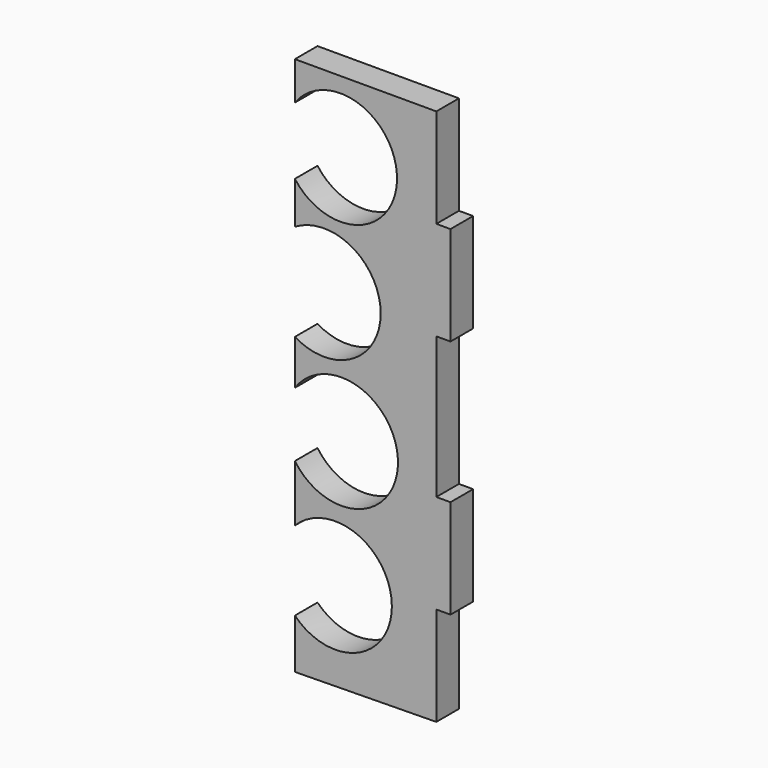
from build123d import *

# Parameters (mm, degrees)
F0_W     = 12.7
F0_H     = 88.9
F1_DEPTH = 12.7
F2_DEPTH = 12.7


with BuildPart() as f1:
    # F0 (on Front) → F1 (new body)
    with BuildSketch(Plane.XZ):
        with BuildLine():
            Line((59.9215296455, 219.3768137217), (59.9215296455, 308.2768137217))
            Line((59.9215296455, 308.2768137217), (-67.0784703545, 308.2768137217))
            Line((-67.0784703545, 308.2768137217), (-67.0784703545, 273.9262878895))
            ThreePointArc((-67.0784703545, 273.9262878895), (24.6308920802, 243.8087835908), (-67.0784703545, 213.6912792921))
            Line((-67.0784703545, 213.6912792921), (-67.0784703545, 175.7761538029))
            ThreePointArc((-67.0784703545, 175.7761538029), (9.9533881395, 132.272940129), (-67.0784703545, 88.7697264552))
            Line((-67.0784703545, 88.7697264552), (-67.0784703545, 48.481028527))
            ThreePointArc((-67.0784703545, 48.481028527), (25.4786126677, 19.5503178984), (-67.0784703545, -9.3803927302))
            Line((-67.0784703545, -9.3803927302), (-67.0784703545, -60.3841729462))
            ThreePointArc((-67.0784703545, -60.3841729462), (19.9861973998, -95.9582347423), (-67.0784703545, -131.5322965384))
            Line((-67.0784703545, -131.5322965384), (-67.0784703545, -176.0952621698))
            Line((-67.0784703545, -176.0952621698), (59.9215296455, -174.3231862783))
            Line((59.9215296455, -174.3231862783), (59.9215296455, -85.4231862783))
            Line((59.9215296455, -85.4231862783), (59.9215296455, -3.2265890837))
            Line((59.9215296455, -3.2265890837), (59.9215296455, 3.4768137217))
            Line((59.9215296455, 3.4768137217), (59.9215296455, 130.4768137217))
            Line((59.9215296455, 130.4768137217), (59.9215296455, 219.3768137217))
        make_face()
        with Locations((66.2715296455, 174.9268137217)):
            Rectangle(F0_W, F0_H)
        Polygon((72.6215296455, 3.4768137217), (59.9215296455, 3.4768137217), (59.9215296455, -3.2265890837), (59.9215296455, -85.4231862783), (72.6215296455, -85.4231862783), align=None)
    extrude(amount=F1_DEPTH)

    # F2 (add): a face of the model
    f2_faces = [f1.faces().sort_by_distance(p)[0] for p in [
        (20.5565602717, 0, 59.7535592064),
    ]]
    extrude(f2_faces, amount=F2_DEPTH)


solid = f1.part
